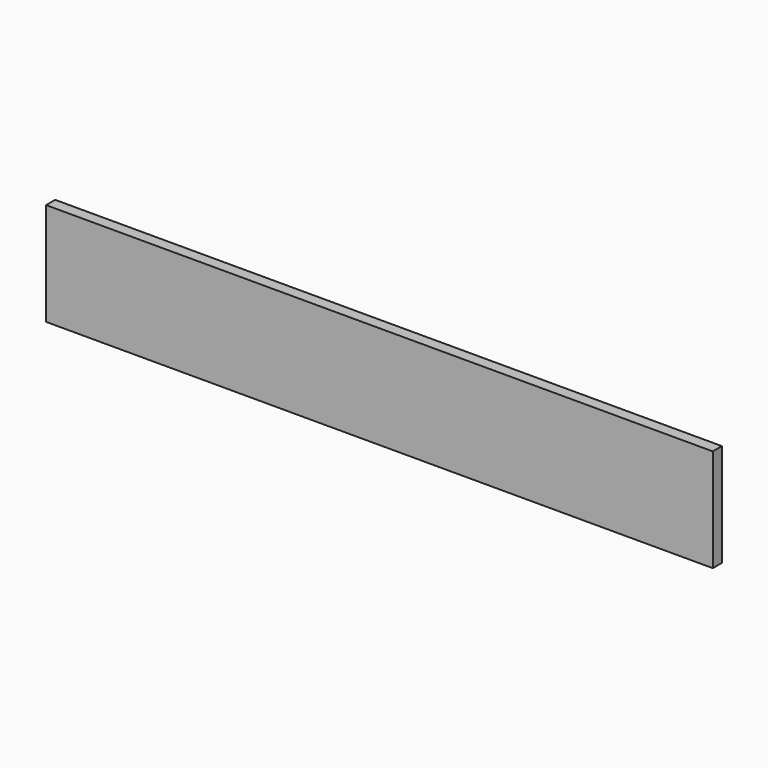
from build123d import *

# Parameters (mm, degrees)
BOX_W     = 817
BOX_H     = 14
BOX_DEPTH = 126


with BuildPart() as part:
    # Box → Box (new body)
    with BuildSketch(Plane.XY):
        with Locations((408.5, 7)):
            Rectangle(BOX_W, BOX_H)
    extrude(amount=BOX_DEPTH)


solid = part.part
